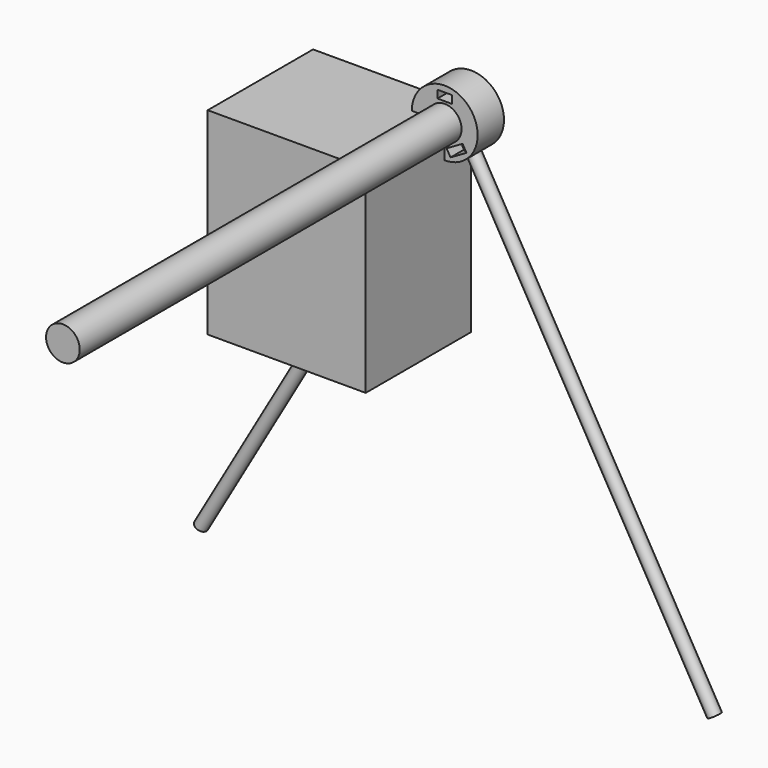
from build123d import *

# Parameters (mm, degrees)
F0_R      = 13
F1_DEPTH  = 393.7
F2_R      = 25.4
F2_W      = 11.2
F2_H      = 6
F3_DEPTH  = 25.4
F4_DEPTH  = 393.7
F5_R      = 4.7625
F6_DEPTH  = 381
F7_DEPTH  = 12.7
F8_R      = 4.7625
F9_DEPTH  = 381
F10_DEPTH = 25.4
F11_W     = 121.92
F11_H     = 152.4
F12_DEPTH = 101.6


with BuildPart() as f1:
    # F0 (on Front) → F1 (new body)
    with BuildSketch(Plane.XZ):
        Circle(F0_R)
    extrude(amount=F1_DEPTH)


with BuildPart() as f3:
    # F2 (on Front) → F3 (new body)
    with BuildSketch(Plane.XZ):
        Circle(F2_R)
        Polygon((-1.4712196331, -16.7482271537), (-4.4712196331, -21.9443795764), (-16.7687803669, -14.8443795764), (-13.7687803669, -9.6482271537), (-7.62, -13.1982271537), align=None, mode=Mode.SUBTRACT)
        Polygon((13.7687803669, -9.6482271537), (16.7687803669, -14.8443795764), (4.4712196331, -21.9443795764), (1.4712196331, -16.7482271537), (7.62, -13.1982271537), align=None, mode=Mode.SUBTRACT)
        with Locations((0, 17.78)):
            Rectangle(F2_W, F2_H, mode=Mode.SUBTRACT)
    extrude(amount=F3_DEPTH)

    # F4 (cut): a face of the model
    f4_faces = [f1.part.faces().sort_by_distance(p)[0] for p in [
        (0, -393.7, 0),
    ]]
    extrude(f4_faces, amount=-F4_DEPTH, mode=Mode.SUBTRACT)

    # F5 (on face) → F7 (cut, symmetric)
    with BuildSketch(Plane(origin=(7.62, 0, -13.1982271537), x_dir=(0.8660254038, 0, 0.5), z_dir=(0.5, 0, -0.8660254038))):
        with Locations((0, 12.7)):
            Circle(F5_R)
    extrude(amount=F7_DEPTH, both=True, mode=Mode.SUBTRACT)

    # F8 (on face) → F10 (cut)
    with BuildSketch(Plane(origin=(-7.62, 0, -13.1982271537), x_dir=(0.8660254038, 0, -0.5), z_dir=(-0.5, 0, -0.8660254038))):
        with Locations((0, 12.7)):
            Circle(F8_R)
    extrude(amount=F10_DEPTH, mode=Mode.SUBTRACT)


with BuildPart() as f6:
    # F5 (on face) → F6 (new body)
    with BuildSketch(Plane(origin=(7.62, 0, -13.1982271537), x_dir=(0.8660254038, 0, 0.5), z_dir=(0.5, 0, -0.8660254038))):
        with Locations((0, 12.7)):
            Circle(F5_R)
    extrude(amount=F6_DEPTH)


with BuildPart() as f9:
    # F8 (on face) → F9 (new body)
    with BuildSketch(Plane(origin=(-7.62, 0, -13.1982271537), x_dir=(0.8660254038, 0, -0.5), z_dir=(-0.5, 0, -0.8660254038))):
        with Locations((0, 12.7)):
            Circle(F8_R)
    extrude(amount=F9_DEPTH)


with BuildPart() as f12:
    # F11 (on Front) → F12 (new body)
    with BuildSketch(Plane.XZ):
        with Locations((-60.96, -76.2)):
            Rectangle(F11_W, F11_H)
    extrude(amount=F12_DEPTH)


solid = Compound([f1.part, f3.part, f6.part, f9.part, f12.part])
